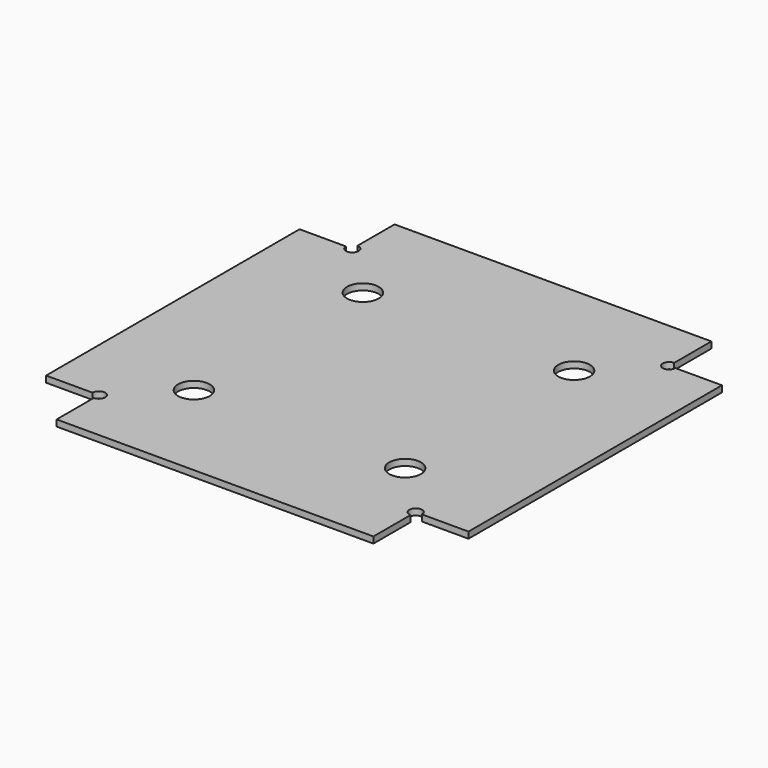
from build123d import *

# Parameters (mm, degrees)
F0_W     = 200
F0_H     = 200
F1_DEPTH = 3
F3_DEPTH = 3.001
F4_R     = 7.5
F5_DEPTH = 3.001


with BuildPart() as f1:
    # F0 (on Top) → F1 (new body)
    with BuildSketch(Plane.XY):
        Rectangle(F0_W, F0_H)
    extrude(amount=F1_DEPTH)

    # F2 (on face) → F3 (cut, through all)
    with BuildSketch(Plane.XY.offset(3)):
        with BuildLine():
            Line((-75, 100), (-100, 100))
            Line((-100, 100), (-100, 75))
            Line((-100, 75), (-78, 75))
            ThreePointArc((-78, 75), (-72.87868, 72.87868), (-75, 78))
            Line((-75, 78), (-75, 100))
        make_face()
        with BuildLine():
            ThreePointArc((75, 78), (72.87868, 72.87868), (78, 75))
            Line((78, 75), (100, 75))
            Line((100, 75), (100, 100))
            Line((100, 100), (75, 100))
            Line((75, 100), (75, 78))
        make_face()
        with BuildLine():
            Line((-100, -100), (-75, -100))
            Line((-75, -100), (-75, -78))
            ThreePointArc((-75, -78), (-72.87868, -72.87868), (-78, -75))
            Line((-78, -75), (-100, -75))
            Line((-100, -75), (-100, -100))
        make_face()
        with BuildLine():
            Line((100, -75), (78, -75))
            ThreePointArc((78, -75), (72.87868, -72.87868), (75, -78))
            Line((75, -78), (75, -100))
            Line((75, -100), (100, -100))
            Line((100, -100), (100, -75))
        make_face()
    extrude(amount=-F3_DEPTH, mode=Mode.SUBTRACT)

    # F4 (on face) → F5 (cut, through all)
    with BuildSketch(Plane.XY.offset(3)):
        with Locations((-50, 50)):
            Circle(F4_R)
        with Locations((50, 50)):
            Circle(F4_R)
        with Locations((-50, -50)):
            Circle(F4_R)
        with Locations((50, -50)):
            Circle(F4_R)
    extrude(amount=-F5_DEPTH, mode=Mode.SUBTRACT)


solid = f1.part
